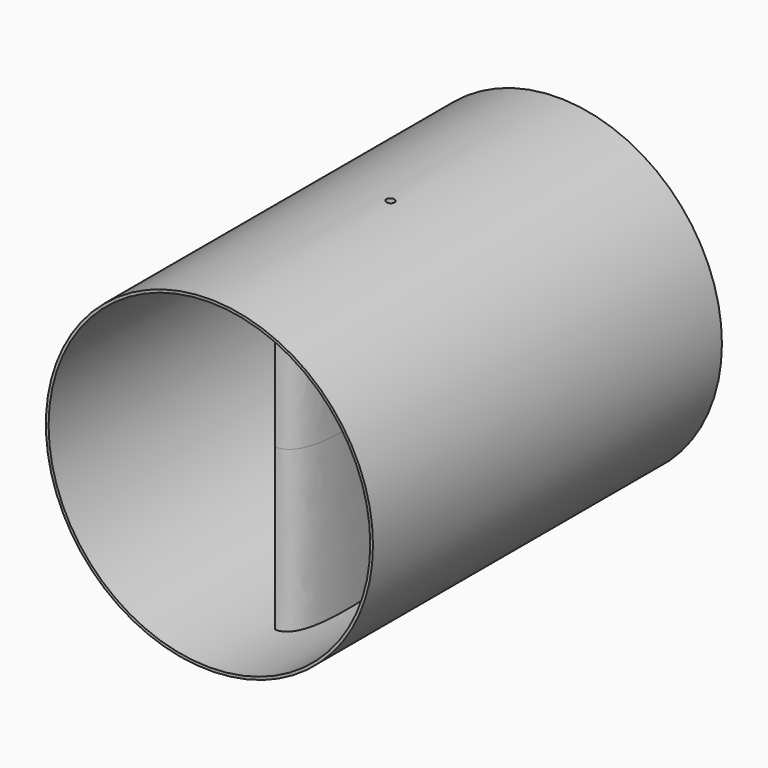
from build123d import *

# Parameters (mm, degrees)
F0_R          = 60
F0_R_2        = 59
F1_DEPTH      = 80
F1_DEPTH_BACK = 80
F2_R          = 1.5
F3_DEPTH      = 59.0000001
F3_DEPTH_BACK = 59.0000001
F4_R          = 5
F5_DEPTH      = 2.2456623517
F5_DEPTH_BACK = 7.6787548984
F6_DEPTH      = 60.001


with BuildPart() as f1:
    # F0 (on Front) → F1 (new body, two sides)
    with BuildSketch(Plane.XZ) as f1_sk:
        Circle(F0_R)
        Circle(F0_R_2, mode=Mode.SUBTRACT)
    extrude(amount=F1_DEPTH)
    extrude(f1_sk.sketch, amount=-F1_DEPTH_BACK)

    # F2 (on Top) → F3 (join, two sides)
    with BuildSketch(Plane.XY) as f3_sk:
        with BuildLine():
            add(Edge.make_bspline(
                [(0, -50), (-3.3022109419, -31.783785671), (-2.6830465067, 18.5749381781), (0, 50)],
                knots=[0, 0, 0, 0, 100, 100, 100, 100], degree=3))
            add(Edge.make_bspline(
                [(0, -50), (16.5110565722, -50.1523353159), (7.2235865518, 0), (0, 50)],
                knots=[0, 0, 0, 0, 100, 100, 100, 100], degree=3))
        make_face()
        with Locations((2.4201369379, 0)):
            Circle(F2_R, mode=Mode.SUBTRACT)
        with Locations((2.4201369379, 0)):
            Circle(F2_R)
    extrude(amount=F3_DEPTH)
    extrude(f3_sk.sketch, amount=-F3_DEPTH_BACK)

    # F4 (on Right) → F5 (cut, two sides)
    with BuildSketch(Plane.YZ) as f5_sk:
        Circle(F4_R)
    extrude(amount=-F5_DEPTH, mode=Mode.SUBTRACT)
    extrude(f5_sk.sketch, amount=F5_DEPTH_BACK, mode=Mode.SUBTRACT)

    # F2 (on Top) → F6 (cut, through all)
    with BuildSketch(Plane.XY):
        with Locations((2.4201369379, 0)):
            Circle(F2_R)
    extrude(amount=F6_DEPTH, mode=Mode.SUBTRACT)


solid = f1.part
